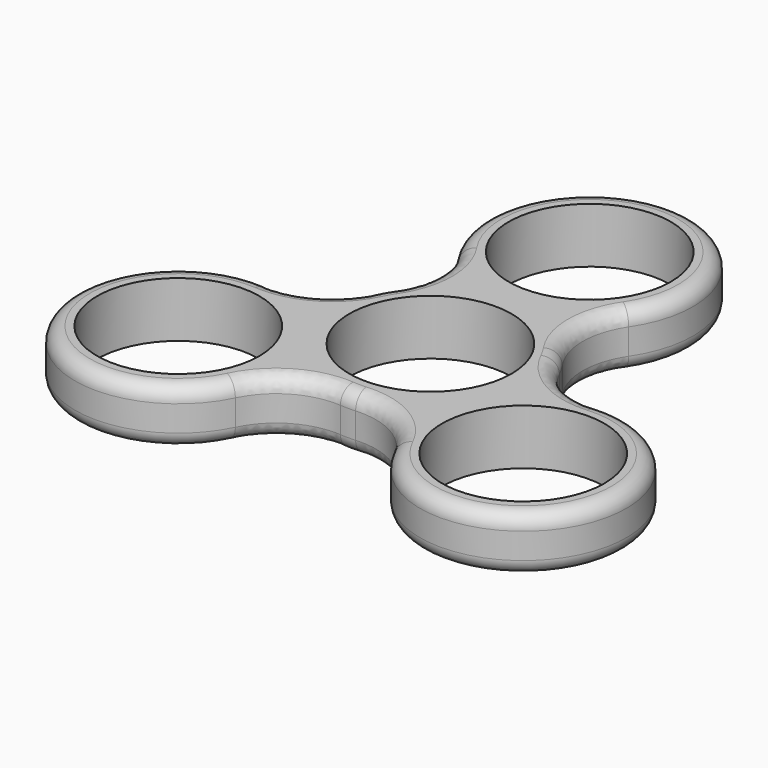
from build123d import *

# Parameters (mm, degrees)
F0_R     = 11
F1_DEPTH = 7.5
F2_R     = 10
F3_R     = 2


with BuildPart() as f1:
    # F0 (on Top) → F1 (new body)
    with BuildSketch(Plane.XY):
        with BuildLine():
            ThreePointArc((3.708099, 13.5), (0, 41), (-3.708099, 13.5))
            ThreePointArc((-3.708099, 13.5), (-12.124356, 7), (-13.545393, -3.538692))
            ThreePointArc((-13.545393, -3.538692), (-35.507042, -20.5), (-9.837293, -9.961308))
            ThreePointArc((-9.837293, -9.961308), (0, -14), (9.837293, -9.961308))
            ThreePointArc((9.837293, -9.961308), (35.507042, -20.5), (13.545393, -3.538692))
            ThreePointArc((13.545393, -3.538692), (12.124356, 7), (3.708099, 13.5))
        make_face()
        with Locations((-23.382686, -13.5)):
            Circle(F0_R, mode=Mode.SUBTRACT)
        with Locations((23.382686, -13.5)):
            Circle(F0_R, mode=Mode.SUBTRACT)
        Circle(F0_R, mode=Mode.SUBTRACT)
        with Locations((0, 27)):
            Circle(F0_R, mode=Mode.SUBTRACT)
    extrude(amount=F1_DEPTH)

    # F2
    f2_edges = [f1.edges().sort_by_distance(p)[0] for p in [
        (-9.837293, -9.961308, 3.75),
        (9.837293, -9.961308, 3.75),
        (-13.545393, -3.538692, 3.75),
        (-3.708099, 13.5, 3.75),
        (3.708099, 13.5, 3.75),
        (13.545393, -3.538692, 3.75),
    ]]
    fillet(f2_edges, radius=F2_R)

    # F3
    f3_edges = [f1.edges().sort_by_distance(p)[0] for p in [
        (-35.507042, -20.5, 7.5),
        (-35.507042, -20.5, 0),
    ]]
    fillet(f3_edges, radius=F3_R)


solid = f1.part
